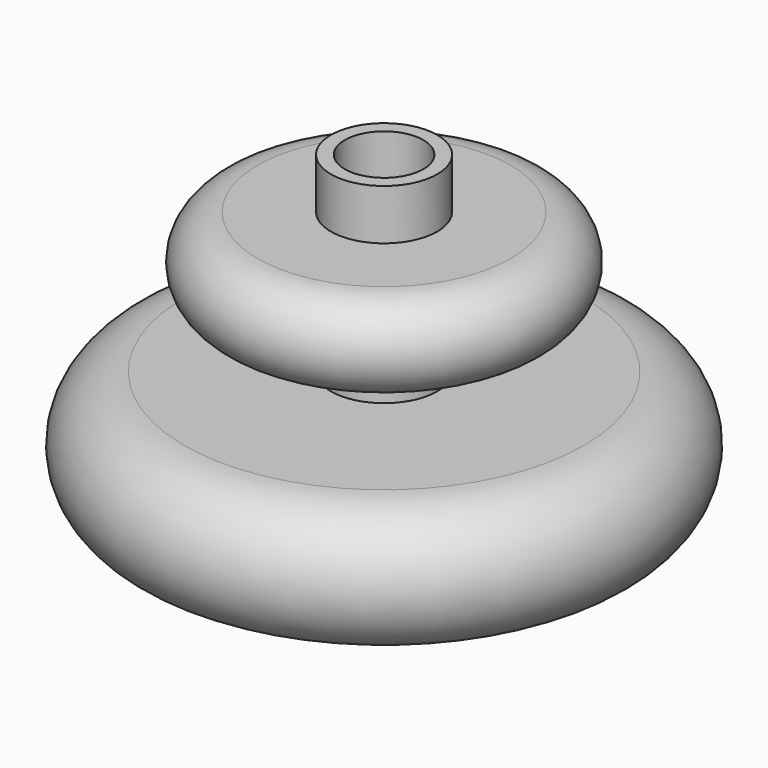
from build123d import *

# Parameters (mm, degrees)
F3_D     = 9.398
F3_DEPTH = 9.525
F3_TIP   = 2.8234440488
F5_D     = 3.19532
F5_DEPTH = 16.66875
F5_TIP   = 0.9599709766


with BuildPart() as f1:
    # F0 (on Front) → F1 (revolve)
    with BuildSketch(Plane.XZ):
        with BuildLine():
            Line((0, 22.8263996542), (0, -21.8741521218))
            Line((0, -21.8741521218), (2.54, -21.8741521218))
            add(Edge.make_bspline(
                [(2.54, -21.8741521218), (2.5441716884, -19.3644294307), (3.3400128786, -17.8042466392), (5.4864982158, -15.8082274963), (9.6622245064, -15.3927278895), (13.0963800475, -15.3518803418), (16.2190684, -15.3281874955)],
                knots=[0, 0, 0, 0, 0.2538500708, 0.4431641951, 0.6786842586, 1, 1, 1, 1], degree=3))
            Line((16.2190684, -15.3281874955), (23.8547402, -15.3281874955))
            ThreePointArc((23.8547402, -15.3281874955), (31.5188339477, -7.6640937477), (23.8547402, 0))
            Line((23.8547402, 0), (6.35, 0))
            Line((6.35, 0), (6.35, 6.35))
            Line((6.35, 6.35), (15.1027384, 6.35))
            ThreePointArc((15.1027384, 6.35), (20.3265735139, 11.5738351139), (15.1027384, 16.7976702278))
            Line((15.1027384, 16.7976702278), (6.35, 16.7976702278))
            Line((6.35, 16.7976702278), (6.35, 22.8263996542))
            Line((6.35, 22.8263996542), (0, 22.8263996542))
        make_face()
    revolve(axis=Axis((0, 0, 0.4761237662), (0, 0, -1)))

    # F3
    with Locations(Plane.XY.offset(22.8263996542)):
        with Locations((0, 0)):
            Hole(F3_D / 2, depth=F3_DEPTH)
            with Locations((0, 0, -(F3_DEPTH + F3_TIP / 2))):  # 118° drill point
                Cone(0, F3_D / 2, F3_TIP, mode=Mode.SUBTRACT)

    # F5
    with Locations(Plane(origin=(0, 0, -21.8741521218), x_dir=(1, 0, 0), z_dir=(0, 0, -1))):
        with Locations((0, 0)):
            Hole(F5_D / 2, depth=F5_DEPTH)
            with Locations((0, 0, -(F5_DEPTH + F5_TIP / 2))):  # 118° drill point
                Cone(0, F5_D / 2, F5_TIP, mode=Mode.SUBTRACT)


solid = f1.part
